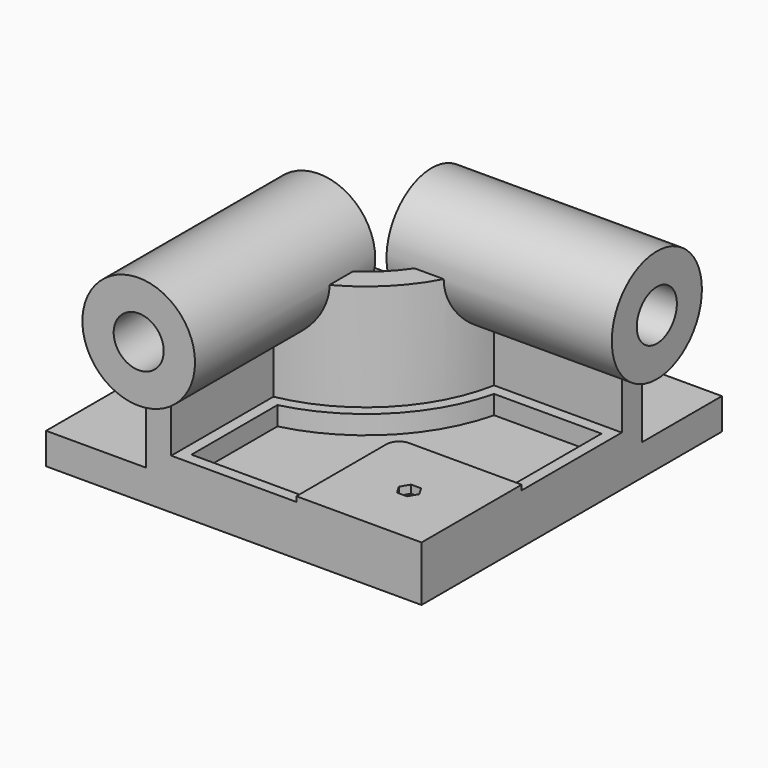
from build123d import *

# Parameters (mm, degrees)
F0_W      = 150
F0_H      = 150
F1_DEPTH  = 12.5
F3_DEPTH  = 50
F5_R      = 22.5
F6_DEPTH  = 90
F8_R      = 22.5
F9_DEPTH  = 90
F11_DEPTH = 9.5
F13_DEPTH = 7.5
F15_DEPTH = 3.2
F16_R     = 2
F17_DEPTH = 6.4
F18_R     = 10
F19_DEPTH = 160.001
F20_R     = 10
F21_DEPTH = 160.001


with BuildPart() as f1:
    # F0 (on Top) → F1 (new body)
    with BuildSketch(Plane.XY):
        Rectangle(F0_W, F0_H)
    extrude(amount=F1_DEPTH)

    # F2 (on face) → F3 (join)
    with BuildSketch(Plane.XY.offset(12.5)):
        with BuildLine():
            Line((-35, -15), (-35, -75))
            Line((-35, -75), (-25, -75))
            Line((-25, -75), (-25, -23.9734782516))
            ThreePointArc((-25, -23.9734782516), (7.0710678119, -7.0710678119), (23.9734782516, 25))
            Line((23.9734782516, 25), (75, 25))
            Line((75, 25), (75, 35))
            Line((75, 35), (15, 35))
            ThreePointArc((15, 35), (0, 0), (-35, -15))
        make_face()
    extrude(amount=F3_DEPTH)

    # F5 (on offset) → F6 (join)
    with BuildSketch(Plane.XZ.offset(85)):
        with Locations((-30, 62.5)):
            Circle(F5_R)
    extrude(amount=-F6_DEPTH)

    # F8 (on offset) → F9 (join)
    with BuildSketch(Plane.YZ.offset(85)):
        with Locations((30, 62.5)):
            Circle(F8_R)
    extrude(amount=-F9_DEPTH)

    # F10 (on face) → F11 (join)
    with BuildSketch(Plane.XY.offset(12.5)):
        with BuildLine():
            Line((25, -75), (75, -75))
            Line((75, -75), (75, -25))
            Line((75, -25), (30, -25))
            ThreePointArc((30, -25), (26.4644660941, -26.4644660941), (25, -30))
            Line((25, -30), (25, -75))
        make_face()
    extrude(amount=F11_DEPTH)

    # F12 (on face) → F13 (join)
    with BuildSketch(Plane.XY.offset(12.5)):
        with BuildLine():
            Line((27.6014252577, 20.5), (70.5, 20.5))
            Line((70.5, 20.5), (70.5, -25))
            Line((70.5, -25), (75, -25))
            Line((75, -25), (75, 25))
            Line((75, 25), (23.9734782516, 25))
            ThreePointArc((23.9734782516, 25), (7.0710678119, -7.0710678119), (-25, -23.9734782516))
            Line((-25, -23.9734782516), (-25, -75))
            Line((-25, -75), (25, -75))
            Line((25, -75), (25, -70.5))
            Line((25, -70.5), (-20.5, -70.5))
            Line((-20.5, -70.5), (-20.5, -27.6014252577))
            ThreePointArc((-20.5, -27.6014252577), (10.2530483272, -10.2530483272), (27.6014252577, 20.5))
        make_face()
    extrude(amount=F13_DEPTH)

    # F14 (on face) → F15 (cut)
    with BuildSketch(Plane.XY.offset(22)):
        Polygon((52.0207259422, -46.5), (47.9792740578, -46.5), (45.9585481157, -50), (47.9792740578, -53.5), (52.0207259422, -53.5), (54.0414518843, -50), align=None)
    extrude(amount=-F15_DEPTH, mode=Mode.SUBTRACT)

    # F16 (on face) → F17 (cut)
    with BuildSketch(Plane.XY.offset(18.8)):
        with Locations((50, -50)):
            Circle(F16_R)
    extrude(amount=-F17_DEPTH, mode=Mode.SUBTRACT)

    # F18 (on face) → F19 (cut, through all)
    with BuildSketch(Plane.XZ.offset(85)):
        with Locations((-30, 62.5)):
            Circle(F18_R)
    extrude(amount=-F19_DEPTH, mode=Mode.SUBTRACT)

    # F20 (on face) → F21 (cut, through all)
    with BuildSketch(Plane.YZ.offset(85)):
        with Locations((30, 62.5)):
            Circle(F20_R)
    extrude(amount=-F21_DEPTH, mode=Mode.SUBTRACT)


solid = f1.part
